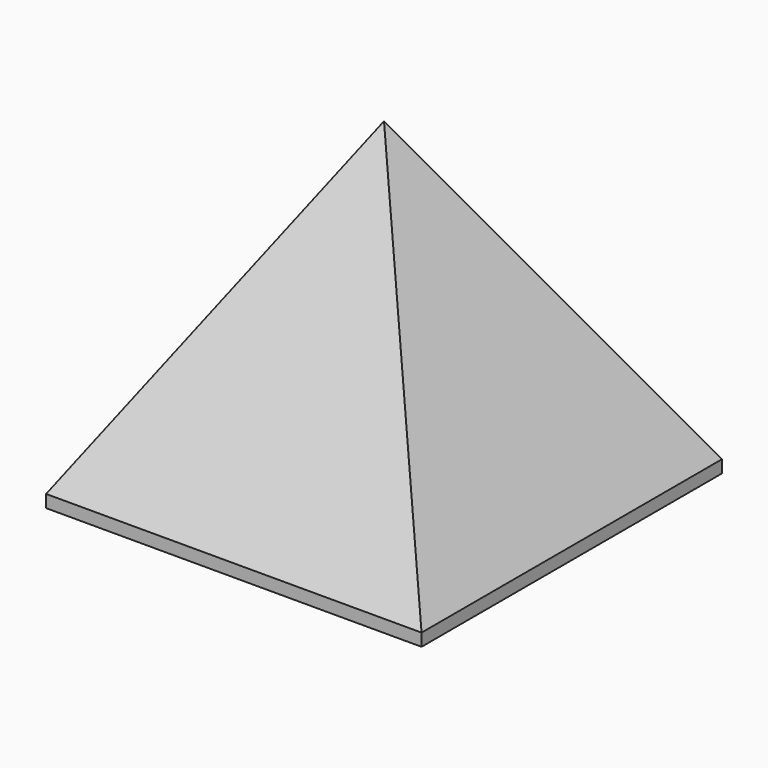
from build123d import *

# Parameters (mm, degrees)
F0_W      = 600
F0_H      = 600
F1_DEPTH  = 20
F1_FACE_W = 600
F1_FACE_H = 600
F5_T      = -20


with BuildPart() as f1:
    # F0 (on Top) → F1 (new body)
    with BuildSketch(Plane.XY):
        Rectangle(F0_W, F0_H)
    extrude(amount=F1_DEPTH)

    # F1_face (on face) → F4 section 0
    with BuildSketch(Plane.XY.offset(20), mode=Mode.PRIVATE) as f4_s0:
        Rectangle(F1_FACE_W, F1_FACE_H)
    loft([f4_s0.sketch, Vertex(0, 0, 520)])

    # F5
    f5_openings = [f1.faces().sort_by_distance(p)[0] for p in [
        (0, 0, 0),
    ]]
    offset(amount=F5_T, openings=f5_openings)


solid = f1.part
